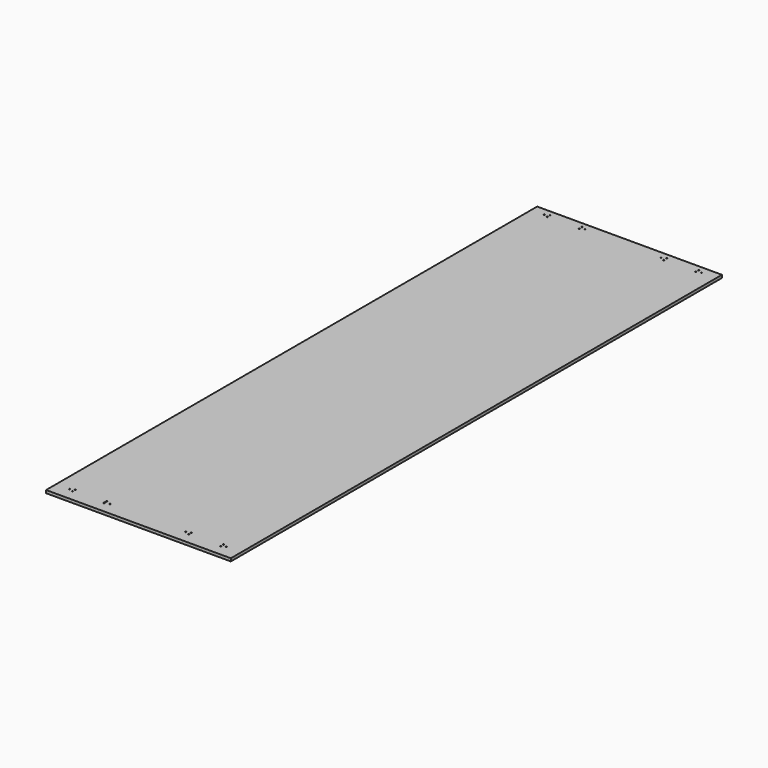
from build123d import *

# Parameters (mm, degrees)
F0_W     = 825.5
F0_H     = 2743.2
F1_DEPTH = 12.7
F3_D     = 5.159375


with BuildPart() as f1:
    # F0 (on Top) → F1 (new body)
    with BuildSketch(Plane.XY):
        with Locations((-833.872486, 1337.126257)):
            Rectangle(F0_W, F0_H)
    extrude(amount=F1_DEPTH)

    # F3 (through all)
    with Locations(Plane.XY.offset(12.7)):
        with Locations((-487.202173, 2676.976257), (-668.177173, 2676.976257), (-649.127173, 2684.913757), (-1189.472486, 2676.976257), (-1027.547486, 2670.002875), (-1027.547486, 2685.877875), (-506.252173, 2684.913757), (-1008.497486, 2678.053958), (-1170.422824, 2685.027199), (-649.127173, 2669.038757), (-1170.422486, 2669.152199), (-506.252173, 2669.038757), (-1005.917798, 22.676257), (-1027.547486, 14.738757), (-1167.842798, 14.738757), (-668.177173, 22.676257), (-649.127173, 14.738757), (-1027.547486, 30.613757), (-649.127173, 30.613757), (-506.252173, 14.738757), (-1167.842798, 30.613757), (-1186.892798, 22.676257), (-506.252173, 30.613757), (-487.202173, 22.676257), (-1027.547486, 22.676257)):
            Hole(F3_D / 2)


solid = f1.part
